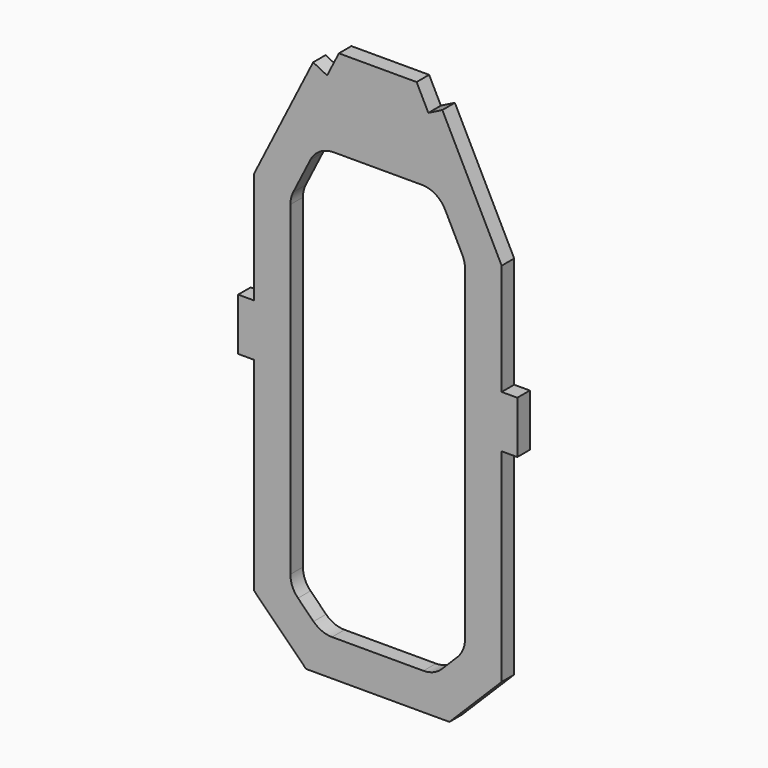
from build123d import *

# Parameters (mm, degrees)
F1_DEPTH = 1.5


with BuildPart() as f1:
    # F0 (on Front) → F1 (new body, symmetric)
    with BuildSketch(Plane.XZ):
        Polygon((-13.725, -53.87112), (13.725, -53.87112), (23.725, -43.87112), (23.725, -5), (26.725, -5), (26.725, 5), (23.725, 5), (23.725, 26.27781), (12.3695024533, 48.8218770831), (9.6902004042, 47.4723065848), (7.4409162405, 51.93781), (-7.4409162405, 51.93781), (-9.6902004042, 47.4723065848), (-12.3695024533, 48.8218770831), (-23.725, 26.27781), (-23.725, 5), (-26.725, 5), (-26.725, -5), (-23.725, -5), (-23.725, -43.87112), align=None)
        with BuildLine():
            Line((-12.2899711575, -45.4066539059), (-15.2605339059, -42.4360911575))
            ThreePointArc((-15.2605339059, -42.4360911575), (-16.3443976626, -40.8139744133), (-16.725, -38.9005572515))
            Line((-16.725, -38.9005572515), (-16.725, 23.4262543267))
            ThreePointArc((-16.725, 23.4262543267), (-16.589540938, 24.5822134358), (-16.1905034152, 25.6755384904))
            Line((-16.1905034152, 25.6755384904), (-12.9106181043, 32.1870941637))
            ThreePointArc((-12.9106181043, 32.1870941637), (-11.0674780489, 34.1949464095), (-8.4451146891, 34.93781))
            Line((-8.4451146891, 34.93781), (8.4451146891, 34.93781))
            ThreePointArc((8.4451146891, 34.93781), (11.0674780489, 34.1949464095), (12.9106181043, 32.1870941637))
            Line((12.9106181043, 32.1870941637), (16.1905034152, 25.6755384904))
            ThreePointArc((16.1905034152, 25.6755384904), (16.589540938, 24.5822134358), (16.725, 23.4262543267))
            Line((16.725, 23.4262543267), (16.725, -38.9005572515))
            ThreePointArc((16.725, -38.9005572515), (16.3443976626, -40.8139744133), (15.2605339059, -42.4360911575))
            Line((15.2605339059, -42.4360911575), (12.2899711575, -45.4066539059))
            ThreePointArc((12.2899711575, -45.4066539059), (10.6678544133, -46.4905176626), (8.7544372515, -46.87112))
            Line((8.7544372515, -46.87112), (-8.7544372515, -46.87112))
            ThreePointArc((-8.7544372515, -46.87112), (-10.6678544133, -46.4905176626), (-12.2899711575, -45.4066539059))
        make_face(mode=Mode.SUBTRACT)
    extrude(amount=F1_DEPTH, both=True)


solid = f1.part
